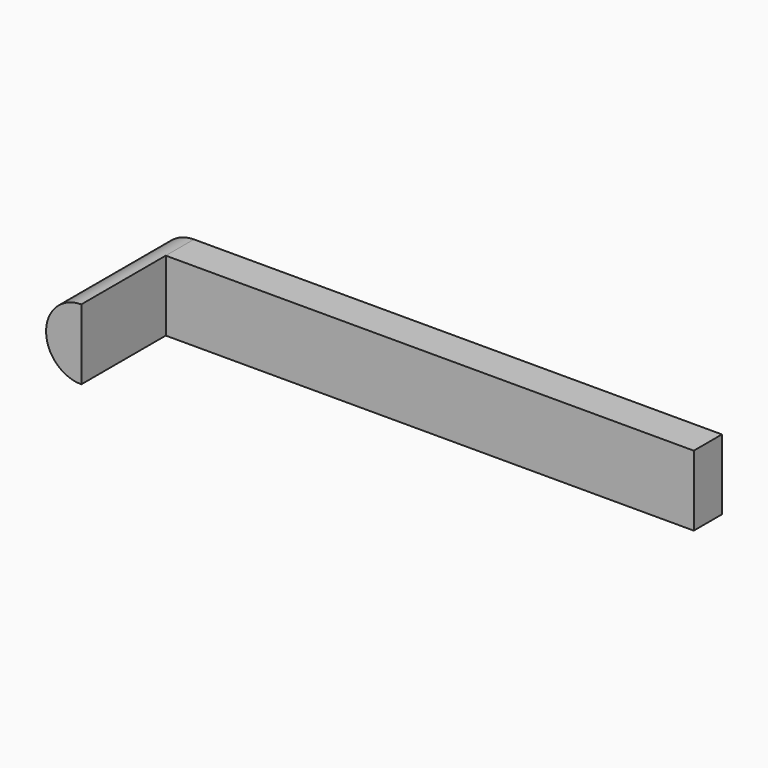
from build123d import *

# Parameters (mm, degrees)
F3_DEPTH = 4
F2_W     = 15
F2_H     = 2
F4_DEPTH = 1


with BuildPart() as f3:
    # F2 (on Front) → F3 (new body)
    with BuildSketch(Plane.XZ):
        with BuildLine():
            Line((0, -1), (0, 1))
            ThreePointArc((0, 1), (-1, 0), (0, -1))
        make_face()
    extrude(amount=F3_DEPTH)

    # F2 (on Front) → F4 (join)
    with BuildSketch(Plane.XZ):
        with Locations((7.5, 0)):
            Rectangle(F2_W, F2_H)
    extrude(amount=F4_DEPTH)


solid = f3.part
